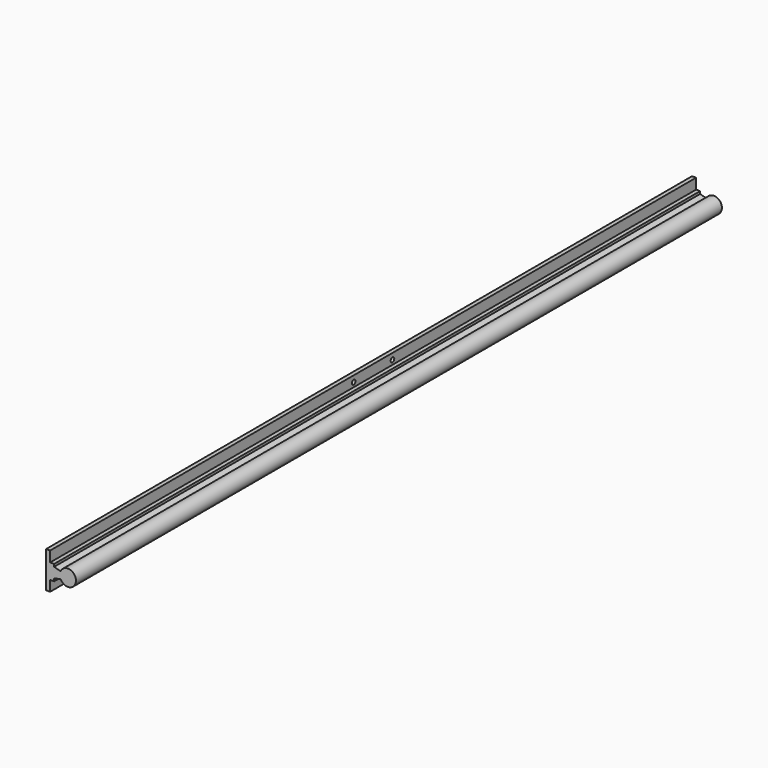
from build123d import *

# Parameters (mm, degrees)
F1_DEPTH = 500
F2_R     = 2.75
F3_DEPTH = 5


with BuildPart() as f1:
    # F0 (on Front) → F1 (new body, symmetric)
    with BuildSketch(Plane.XZ):
        with BuildLine():
            Line((5, 22.5), (0, 22.5))
            Line((0, 22.5), (0, -22.5))
            Line((0, -22.5), (5, -22.5))
            Line((5, -22.5), (5, -9.5))
            Line((5, -9.5), (10, -9.5))
            Line((10, -9.5), (10, -6.5))
            Line((10, -6.5), (17.920467, -4.190713))
            ThreePointArc((17.920467, -4.190713), (36.999929, 0.037742), (17.889092, 4.122058))
            Line((17.889092, 4.122058), (10, 6.379587))
            Line((10, 6.379587), (10, 9.5))
            Line((10, 9.5), (5, 9.5))
            Line((5, 9.5), (5, 22.5))
        make_face()
    extrude(amount=F1_DEPTH, both=True)

    # F2 (on face) → F3 (cut)
    with BuildSketch(Plane(origin=(0, 0, 0), x_dir=(0, -1, 0), z_dir=(-1, 0, 0))):
        with Locations((30, 15)):
            Circle(F2_R)
        with Locations((30, -15)):
            Circle(F2_R)
        with Locations((-30, -15)):
            Circle(F2_R)
        with Locations((-30, 15)):
            Circle(F2_R)
    extrude(amount=-F3_DEPTH, mode=Mode.SUBTRACT)


solid = f1.part
